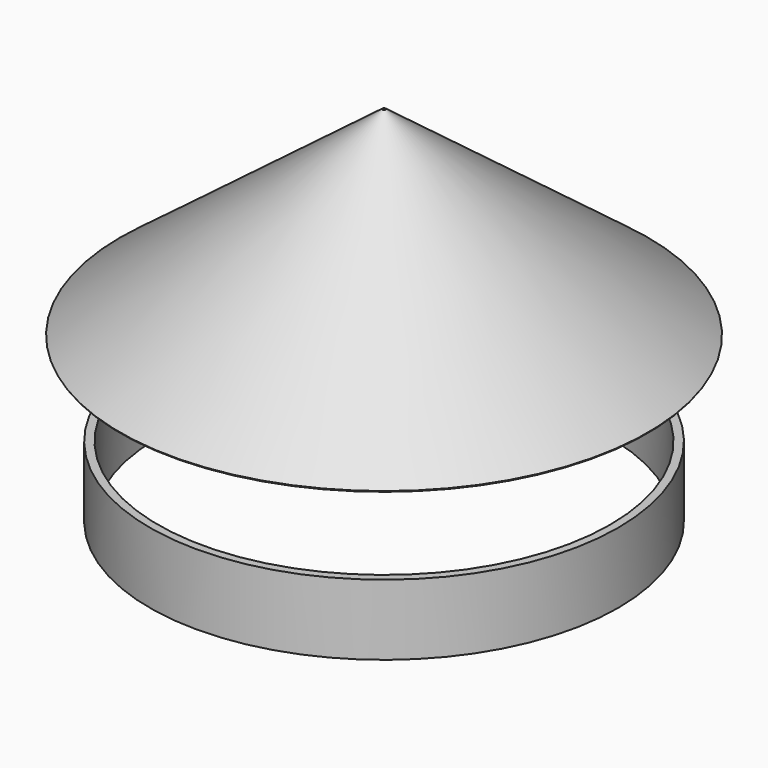
from build123d import *

# Parameters (mm, degrees)
F0_W = 1.016
F0_H = 8.841316


with BuildPart() as f1:
    # F0 (on Front) → F1 (revolve)
    with BuildSketch(Plane.XZ):
        Polygon((-0.208048, 45.26193), (-0.208048, 45.470083), (-33.064511, 20.558326), (-32.972336, 20.42006), align=None)
        with Locations((-28.829109, 4.420658)):
            Rectangle(F0_W, F0_H)
    revolve(axis=Axis((0, 0, 22.817219), (0, 0, -1)))


solid = f1.part
